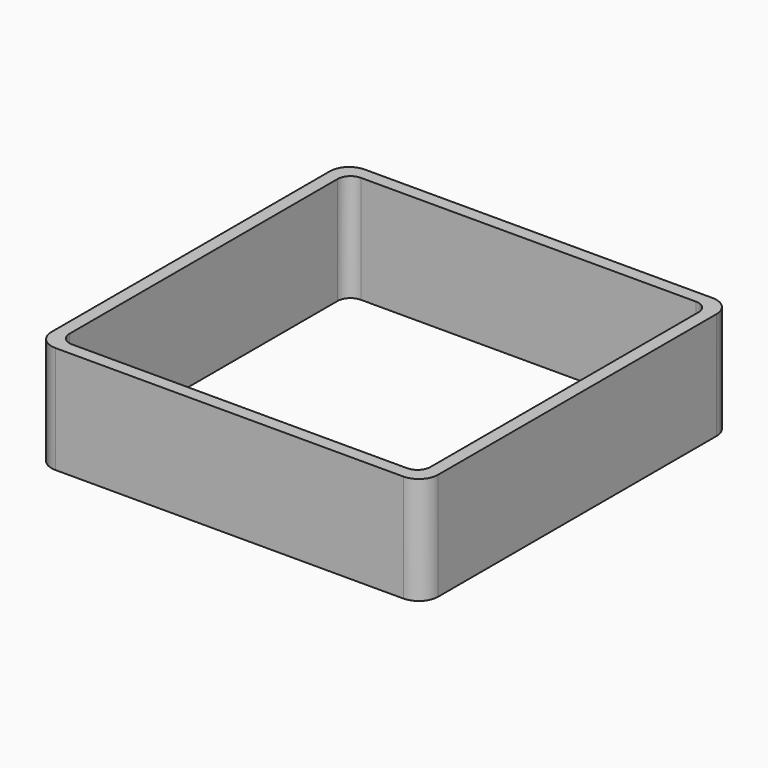
from build123d import *

# Parameters (mm, degrees)
EXTRUDE_DEPTH = 50


with BuildPart() as part:
    # Sketch → Extrude (new body)
    with BuildSketch(Plane.XY):
        with BuildLine():
            Line((-81, 90), (81, 90))
            ThreePointArc((90, 81), (87.363961, 87.363961), (81, 90))
            Line((90, 81), (90, -81))
            ThreePointArc((81, -90), (87.363961, -87.363961), (90, -81))
            Line((81, -90), (-81, -90))
            ThreePointArc((-90, -81), (-87.363961, -87.363961), (-81, -90))
            Line((-90, -81), (-90, 81))
            ThreePointArc((-81, 90), (-87.363961, 87.363961), (-90, 81))
        make_face()
        with BuildLine():
            Line((-78, 84), (78, 84))
            ThreePointArc((84, 78), (82.242641, 82.242641), (78, 84))
            Line((84, 78), (84, -78))
            ThreePointArc((78, -84), (82.242641, -82.242641), (84, -78))
            Line((78, -84), (-78, -84))
            ThreePointArc((-84, -78), (-82.242641, -82.242641), (-78, -84))
            Line((-84, -78), (-84, 78))
            ThreePointArc((-78, 84), (-82.242641, 82.242641), (-84, 78))
        make_face(mode=Mode.SUBTRACT)
    extrude(amount=EXTRUDE_DEPTH)


solid = part.part
